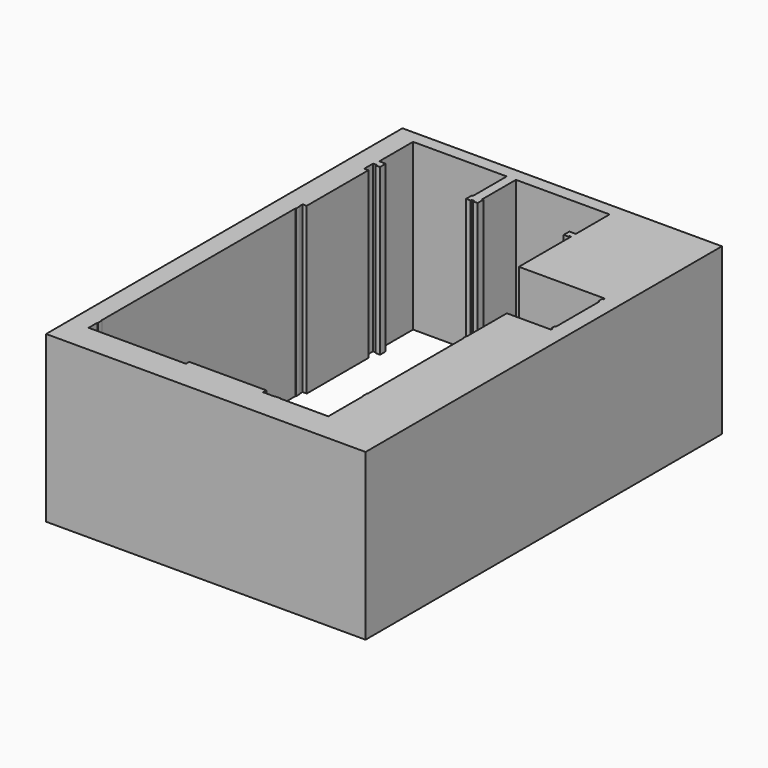
from build123d import *

# Parameters (mm, degrees)
F1_DEPTH = 2286


with BuildPart() as f1:
    # F0 (on Top) → F1 (new body)
    with BuildSketch(Plane.XY):
        Polygon((5583.305836, 2013.416767), (1266.77084, 2013.416767), (1165.241599, 2013.416767), (1165.241599, -4146.670341), (5583.305836, -4146.670341), align=None)
        Polygon((5358.136758, -635.829386), (5358.136758, -661.229386), (4748.536758, -661.229386), (4748.536758, -1340.679386), (4742.186758, -1340.679386), (4742.186758, -1410.529386), (4748.536758, -1410.529386), (4748.536758, -3067.879386), (4742.186758, -3067.879386), (4742.186758, -3137.729386), (4748.536758, -3137.729386), (4748.536758, -3747.329386), (4088.136758, -3747.329386), (4088.136758, -3740.979386), (4018.286758, -3740.979386), (4018.286758, -3747.329386), (3846.836758, -3747.329386), (3846.836758, -3690.179386), (2780.036758, -3690.179386), (2780.036758, -3747.329386), (1433.836758, -3747.329386), (1433.836758, -3594.929386), (1440.186758, -3594.929386), (1440.186758, -3525.079386), (1433.836758, -3525.079386), (1433.836758, -169.104386), (1440.186758, -169.104386), (1440.186758, -99.254386), (1433.836758, -99.254386), (1433.836758, -48.454386), (1490.986758, -48.454386), (1490.986758, 1018.345614), (1433.836758, 1018.345614), (1433.836758, 1170.745614), (1478.286758, 1170.745614), (1478.286758, 1154.870614), (1541.786758, 1154.870614), (1541.786758, 1253.295614), (1452.886758, 1253.295614), (1452.886758, 1837.495614), (2748.286758, 1837.495614), (2748.286758, 1253.295614), (2732.411758, 1253.295614), (2732.411758, 1154.870614), (2795.911758, 1154.870614), (2795.911758, 1170.745614), (2827.661758, 1170.745614), (2827.661758, 1154.870614), (2891.161758, 1154.870614), (2891.161758, 1253.295614), (2875.286758, 1253.295614), (2875.286758, 1837.495614), (4170.686758, 1837.495614), (4170.686758, 1253.295614), (4081.786758, 1253.295614), (4081.786758, 1154.870614), (4145.286758, 1154.870614), (4145.286758, 1170.745614), (4170.686758, 1170.745614), (4170.686758, 269.045614), (5358.136758, 269.045614), (5358.136758, 243.645614), (5342.261758, 243.645614), (5342.261758, 180.145614), (5358.136758, 180.145614), (5358.136758, -572.329386), (5342.261758, -572.329386), (5342.261758, -635.829386), align=None, mode=Mode.SUBTRACT)
    extrude(amount=F1_DEPTH)


solid = f1.part
